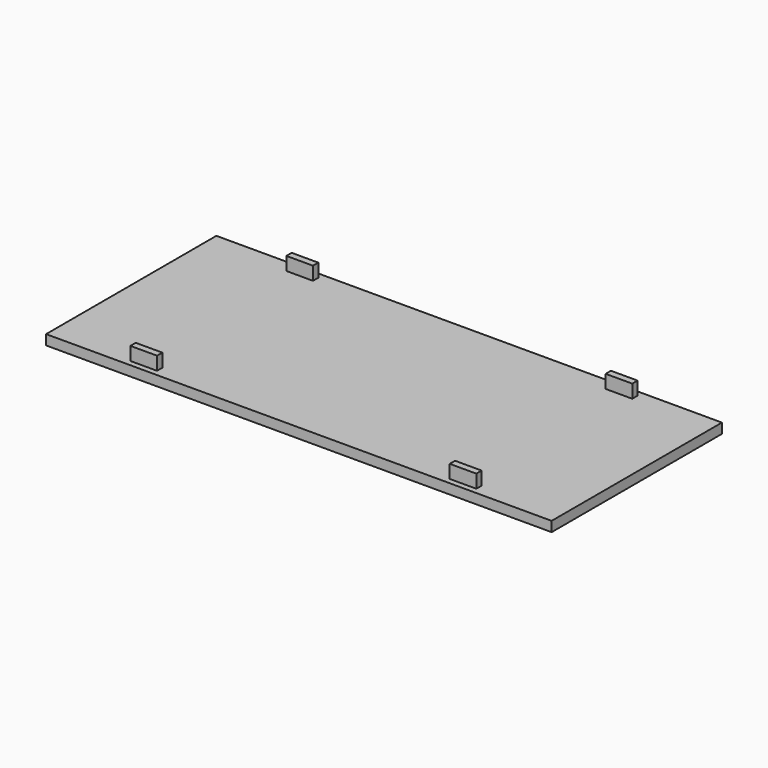
from build123d import *

# Parameters (mm, degrees)
SKETCH_W     = 76
SKETCH_H     = 32
PAD_DEPTH    = 1.5
SKETCH001_W  = 4
SKETCH001_H  = 1
PAD001_DEPTH = 2


with BuildPart() as part:
    # Sketch (on XY_Plane of Origin) → Pad (new body)
    with BuildSketch(Plane.XY):
        Rectangle(SKETCH_W, SKETCH_H)
    extrude(amount=PAD_DEPTH)

    # Sketch001 (on Face6 of Pad) → Pad001 (join)
    with BuildSketch(Plane.XY.offset(1.5)):
        with Locations((-24, 14.65)):
            Rectangle(SKETCH001_W, SKETCH001_H)
        with Locations((24, 14.65)):
            Rectangle(SKETCH001_W, SKETCH001_H)
        with Locations((-24, -14.65)):
            Rectangle(SKETCH001_W, SKETCH001_H)
        with Locations((24, -14.65)):
            Rectangle(SKETCH001_W, SKETCH001_H)
    extrude(amount=PAD001_DEPTH)


solid = part.part
